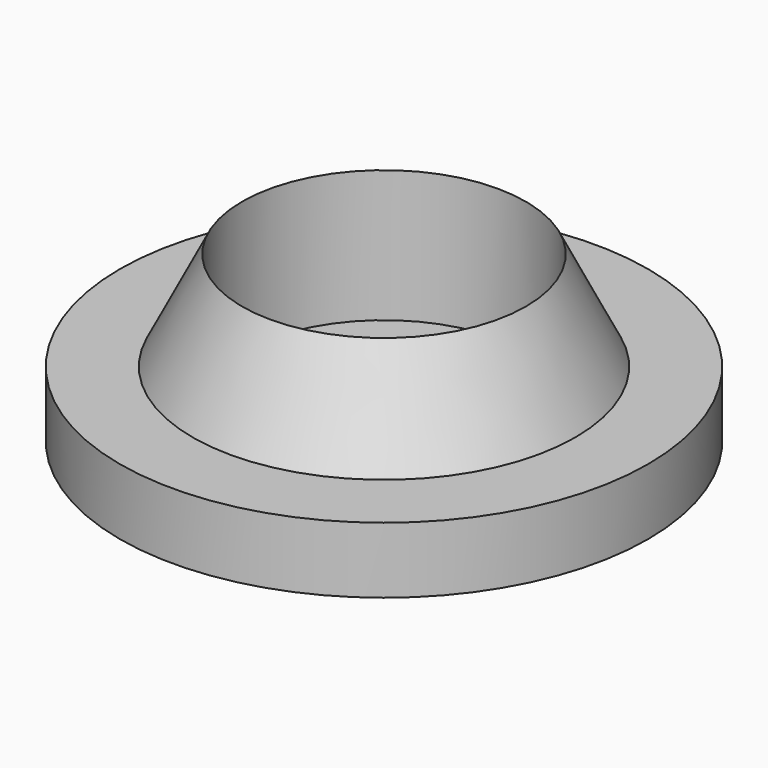
from build123d import *

# Parameters (mm, degrees)
F0_R     = 5.8
F0_R_2   = 4.3
F1_DEPTH = 3
F0_R_3   = 8
F2_DEPTH = 2
F6_DEPTH = 1


with BuildPart() as f1:
    # F0 (on Top) → F1 (new body)
    with BuildSketch(Plane.XY):
        Circle(F0_R)
        Circle(F0_R_2, mode=Mode.SUBTRACT)
    extrude(amount=F1_DEPTH)

    # F0 (on Top) → F2 (join)
    with BuildSketch(Plane.XY):
        Circle(F0_R_3)
        Circle(F0_R, mode=Mode.SUBTRACT)
        Circle(F0_R)
        Circle(F0_R_2, mode=Mode.SUBTRACT)
        Circle(F0_R_2)
    extrude(amount=-F2_DEPTH)

    # F3 (on Front) → F5 (revolve, cut)
    with BuildSketch(Plane.XZ):
        Polygon((5.8, 3), (4.3, 3), (5.8, 0), align=None)
    revolve(axis=Axis((0, 0, 7.644158), (0, 0, 1)), mode=Mode.SUBTRACT)

    # F0 (on Top) → F6 (cut)
    with BuildSketch(Plane.XY):
        Circle(F0_R_2)
    extrude(amount=-F6_DEPTH, mode=Mode.SUBTRACT)


solid = f1.part
